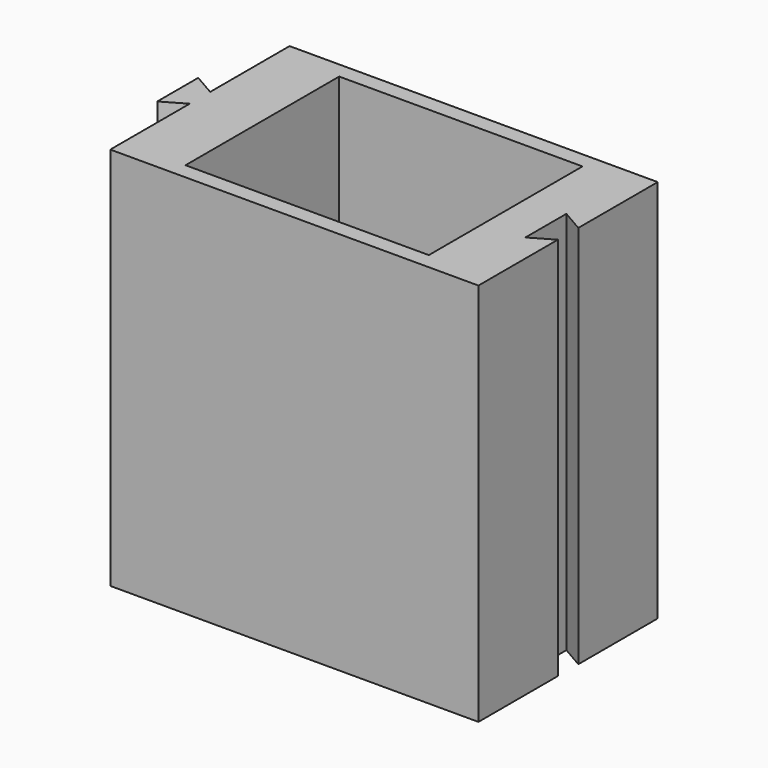
from build123d import *

# Parameters (mm, degrees)
F0_W     = 73.025
F0_H     = 44.45
F1_DEPTH = 76.2
F2_W     = 48.26
F2_H     = 38.1
F3_DEPTH = 72.39
F5_DEPTH = 76.2
F6_DEPTH = 76.2


with BuildPart() as f1:
    # F0 (on Top) → F1 (new body)
    with BuildSketch(Plane.XY):
        Rectangle(F0_W, F0_H)
    extrude(amount=F1_DEPTH)

    # F2 (on face) → F3 (cut)
    with BuildSketch(Plane.XY.offset(76.2)):
        Rectangle(F2_W, F2_H)
    extrude(amount=-F3_DEPTH, mode=Mode.SUBTRACT)

    # F4 (on face) → F5 (cut)
    with BuildSketch(Plane.XY.offset(76.2)):
        Polygon((36.5125, -2.54), (36.5125, 0), (36.5125, 2.54), (32.113091, 5.08), (32.113091, -5.08), align=None)
    extrude(amount=-F5_DEPTH, mode=Mode.SUBTRACT)

    # F4 (on face) → F6 (join)
    with BuildSketch(Plane.XY.offset(76.2)):
        Polygon((-36.5125, 0), (-36.5125, 2.54), (-40.911909, 5.08), (-40.911909, -5.08), (-36.5125, -2.54), align=None)
    extrude(amount=-F6_DEPTH)


solid = f1.part
